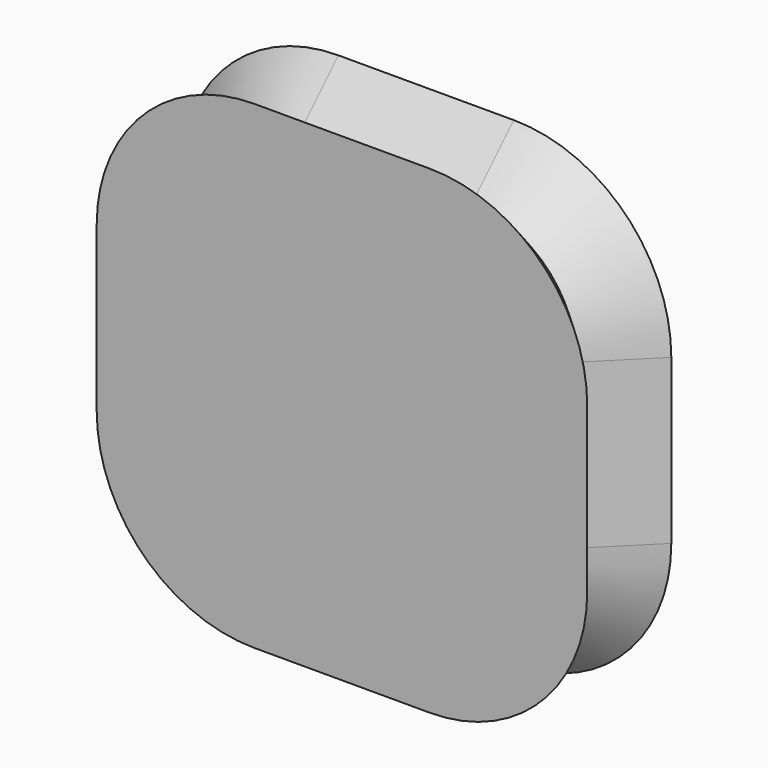
from build123d import *

# Parameters (mm, degrees)
F1_DEPTH = 12.7
F1_TAPER = -45


with BuildPart() as f1:
    # F0 (on Front) → F1 (new body, symmetric)
    with BuildSketch(Plane.XZ):
        with BuildLine():
            Line((21.1934276581, 45.1956354082), (-21.1934276581, 45.1956354082))
            ThreePointArc((-21.1934276581, 45.1956354082), (-39.1539399002, 37.7561476503), (-46.5934276581, 19.7956354082))
            Line((-46.5934276581, 19.7956354082), (-46.5934276581, -19.7956354082))
            ThreePointArc((-46.5934276581, -19.7956354082), (-39.1539399002, -37.7561476503), (-21.1934276581, -45.1956354082))
            Line((-21.1934276581, -45.1956354082), (21.1934276581, -45.1956354082))
            ThreePointArc((21.1934276581, -45.1956354082), (39.1539399002, -37.7561476503), (46.5934276581, -19.7956354082))
            Line((46.5934276581, -19.7956354082), (46.5934276581, 19.7956354082))
            ThreePointArc((46.5934276581, 19.7956354082), (39.1539399002, 37.7561476503), (21.1934276581, 45.1956354082))
        make_face()
    extrude(amount=F1_DEPTH, both=True, taper=F1_TAPER)


solid = f1.part
